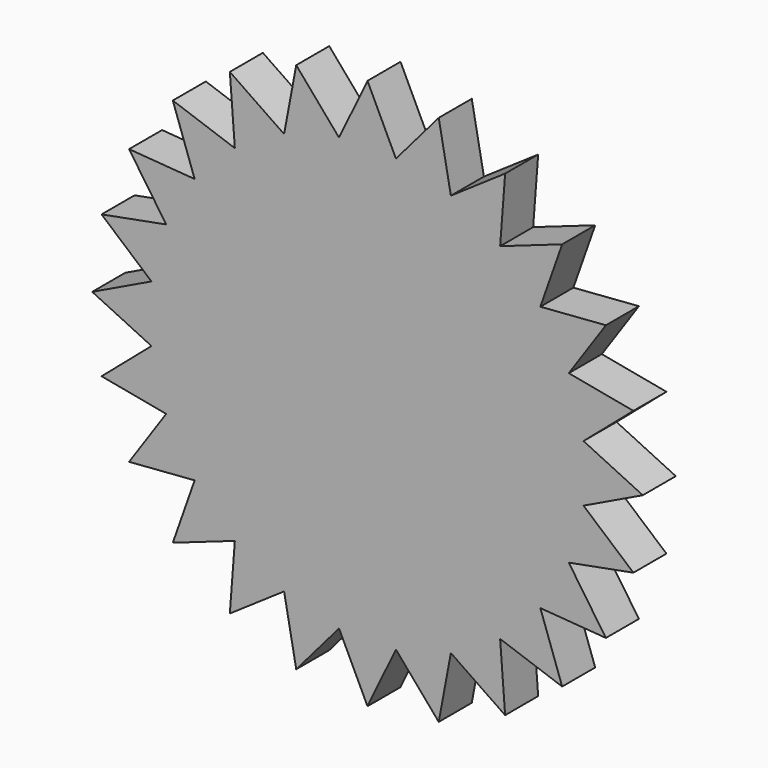
from build123d import *

# Parameters (mm, degrees)
F1_DEPTH = 3.81


with BuildPart() as f1:
    # F0 (on Front) → F1 (new body)
    with BuildSketch(Plane.XZ):
        Polygon((24.534516, 6.574004), (0, 0), (25.4, 0), (19.930718, 2.623929), align=None)
        Polygon((-6.574004, 24.534516), (0, 0), (0, 25.4), (-2.623929, 19.930718), align=None)
        Polygon((-24.534516, -6.574004), (0, 0), (-25.4, 0), (-19.930718, -2.623929), align=None)
        Polygon((6.574004, -24.534516), (0, 0), (0, -25.4), (2.623929, -19.930718), align=None)
        Polygon((25.4, 0), (0, 0), (24.534516, -6.574004), (19.930718, -2.623929), align=None)
        Polygon((21.997045, 12.7), (0, 0), (24.534516, 6.574004), (18.572473, 7.69297), align=None)
        Polygon((17.960512, 17.960512), (0, 0), (21.997045, 12.7), (15.948544, 12.237748), align=None)
        Polygon((12.7, 21.997045), (0, 0), (17.960512, 17.960512), (12.237748, 15.948544), align=None)
        Polygon((6.574004, 24.534516), (0, 0), (12.7, 21.997045), (7.69297, 18.572473), align=None)
        Polygon((0, 25.4), (0, 0), (6.574004, 24.534516), (2.623929, 19.930718), align=None)
        Polygon((0, -25.4), (0, 0), (-6.574004, -24.534516), (-2.623929, -19.930718), align=None)
        Polygon((24.534516, -6.574004), (0, 0), (21.997045, -12.7), (18.572473, -7.69297), align=None)
        Polygon((21.997045, -12.7), (0, 0), (17.960512, -17.960512), (15.948544, -12.237748), align=None)
        Polygon((17.960512, -17.960512), (0, 0), (12.7, -21.997045), (12.237748, -15.948544), align=None)
        Polygon((12.7, -21.997045), (0, 0), (6.574004, -24.534516), (7.69297, -18.572473), align=None)
        Polygon((-6.574004, -24.534516), (0, 0), (-12.7, -21.997045), (-7.69297, -18.572473), align=None)
        Polygon((-12.7, -21.997045), (0, 0), (-17.960512, -17.960512), (-12.237748, -15.948544), align=None)
        Polygon((-17.960512, -17.960512), (0, 0), (-21.997045, -12.7), (-15.948544, -12.237748), align=None)
        Polygon((-21.997045, -12.7), (0, 0), (-24.534516, -6.574004), (-18.572473, -7.69297), align=None)
        Polygon((-25.4, 0), (0, 0), (-24.534516, 6.574004), (-19.930718, 2.623929), align=None)
        Polygon((-24.534516, 6.574004), (0, 0), (-21.997045, 12.7), (-18.572473, 7.69297), align=None)
        Polygon((-21.997045, 12.7), (0, 0), (-17.960512, 17.960512), (-15.948544, 12.237748), align=None)
        Polygon((-17.960512, 17.960512), (0, 0), (-12.7, 21.997045), (-12.237748, 15.948544), align=None)
        Polygon((-12.7, 21.997045), (0, 0), (-6.574004, 24.534516), (-7.69297, 18.572473), align=None)
    extrude(amount=F1_DEPTH)


solid = f1.part
